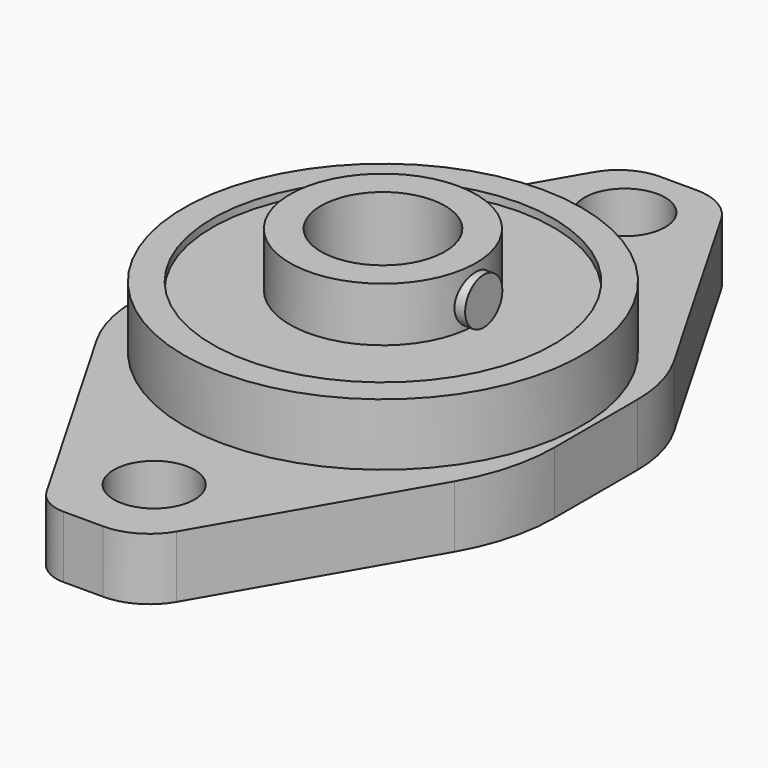
from build123d import *

# Parameters (mm, degrees)
SKETCH012_R             = 12.85
PAD006_DEPTH            = 4
SKETCH013_R             = 11
POCKET004_DEPTH         = 0.5
SKETCH014_R             = 6
PAD007_DEPTH            = 3.5
SKETCH016_R             = 1.5
PAD008_DEPTH            = 6.5
SKETCH015_R             = 4
POCKET005_DEPTH         = 7.001
SKETCH017_R             = 2.6
PAD009_DEPTH            = 4
BODY002_PLACEMENT_ANGLE = 90


with BuildPart() as part:
    # Sketch012 → Pad006 (new body)
    with BuildSketch(Plane.XY):
        Circle(SKETCH012_R)
    extrude(amount=PAD006_DEPTH)

    # Sketch013 → Pocket004 (cut)
    with BuildSketch(Plane.XY.offset(4)):
        Circle(SKETCH013_R)
    extrude(amount=-POCKET004_DEPTH, mode=Mode.SUBTRACT)

    # Sketch014 (on Face5 of Pocket004) → Pad007 (join)
    with BuildSketch(Plane.XY.offset(3.5)):
        Circle(SKETCH014_R)
    extrude(amount=PAD007_DEPTH)

    # Sketch016 → Pad008 (join)
    with BuildSketch(Plane.XZ):
        with Locations((0, 5)):
            Circle(SKETCH016_R)
    extrude(amount=PAD008_DEPTH)

    # Sketch015 (on Face7 of Pad007) → Pocket005 (cut, through all)
    with BuildSketch(Plane.XY.offset(7)):
        Circle(SKETCH015_R)
    extrude(amount=-POCKET005_DEPTH, mode=Mode.SUBTRACT)

    # Sketch017 → Pad009 (join)
    with BuildSketch(Plane.XY):
        with BuildLine():
            Line((-3.542445, 13.25), (4.373404, 13.25))
            ThreePointArc((7.251161, 12.477086), (5.863276, 13.053407), (4.373404, 13.25))
            Line((7.251161, 12.477086), (21.969939, 3.956011))
            ThreePointArc((23.65, 1.04209), (23.1999, 2.72387), (21.969939, 3.956011))
            Line((23.65, 1.04209), (23.65, -1.322208))
            ThreePointArc((21.959502, -4.246432), (23.196964, -3.011059), (23.65, -1.322208))
            Line((8.3652, -12.074699), (21.959502, -4.246432))
            ThreePointArc((3.969015, -13.25), (6.244305, -12.951104), (8.3652, -12.074699))
            Line((3.969015, -13.25), (-2.715889, -13.25))
            ThreePointArc((-8.759411, -11.630643), (-5.844246, -12.838144), (-2.715889, -13.25))
            Line((-21.777636, -4.114568), (-8.759411, -11.630643))
            ThreePointArc((-23.65, -0.871538), (-23.148302, -2.743902), (-21.777636, -4.114568))
            Line((-23.65, -0.871538), (-23.65, 1.686966))
            ThreePointArc((-22.483817, 3.706854), (-23.337522, 2.853149), (-23.65, 1.686966))
            Line((-8.043592, 12.043921), (-22.483817, 3.706854))
            ThreePointArc((-3.542445, 13.25), (-5.87241, 12.943254), (-8.043592, 12.043921))
        make_face()
        with Locations((-18.5, -0.045589)):
            Circle(SKETCH017_R, mode=Mode.SUBTRACT)
        with Locations((19.5, 0)):
            Circle(SKETCH017_R, mode=Mode.SUBTRACT)
    extrude(amount=-PAD009_DEPTH)


with BuildPart() as part_1:
    # Body002 placement: moved
    add(part.part.moved(Location((-58, 0, 4))).rotate(Axis((-58, 0, 4), (0, 0, 1)), BODY002_PLACEMENT_ANGLE))


solid = part_1.part
